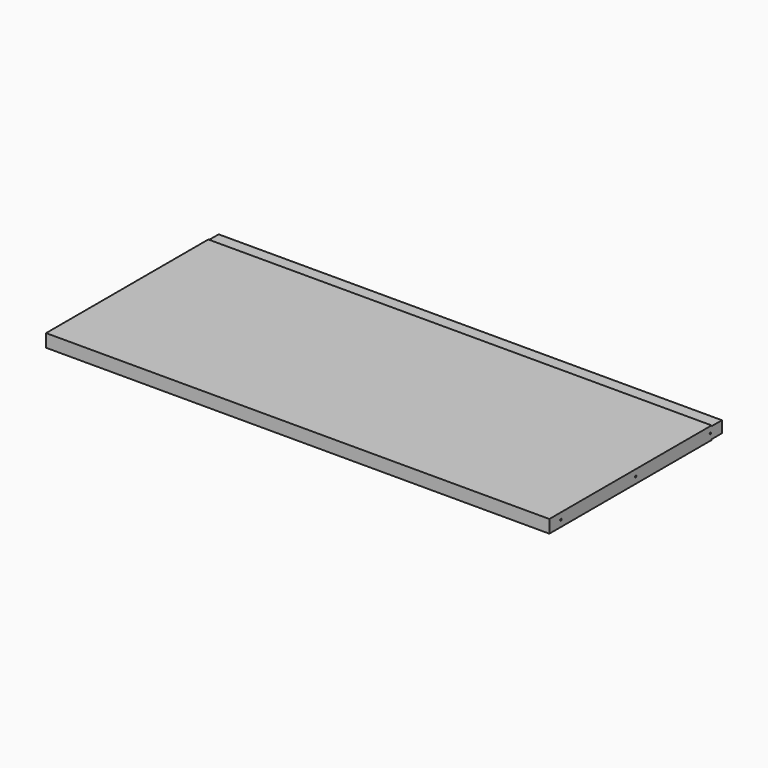
from build123d import *

# Parameters (mm, degrees)
F0_W     = 700
F0_H     = 300
F1_DEPTH = 18
F2_W     = 18
F2_H     = 1
F3_DEPTH = 700.001
F5_D     = 2.5
F5_DEPTH = 14.5
F5_TIP   = 0.7510757738
F7_D     = 2.5
F7_DEPTH = 14
F7_TIP   = 0.7510757738


with BuildPart() as f1:
    # F0 (on Top) → F1 (new body)
    with BuildSketch(Plane.XY):
        with Locations((350, 150)):
            Rectangle(F0_W, F0_H)
    extrude(amount=F1_DEPTH)

    # F2 (on face) → F3 (cut, through all)
    with BuildSketch(Plane(origin=(0, 0, 0), x_dir=(0, -1, 0), z_dir=(-1, 0, 0))):
        with Locations((-291, 17.5)):
            Rectangle(F2_W, F2_H)
        with Locations((-291, 0.5)):
            Rectangle(F2_W, F2_H)
    extrude(amount=-F3_DEPTH, mode=Mode.SUBTRACT)

    # F5
    with Locations(Plane(origin=(0, 0, 0), x_dir=(0, -1, 0), z_dir=(-1, 0, 0))):
        with Locations((-280, 9), (-150, 9), (-20, 9)):
            Hole(F5_D / 2, depth=F5_DEPTH)
            with Locations((0, 0, -(F5_DEPTH + F5_TIP / 2))):  # 118° drill point
                Cone(0, F5_D / 2, F5_TIP, mode=Mode.SUBTRACT)

    # F7
    with Locations(Plane.YZ.offset(700)):
        with Locations((20, 9), (150, 9), (280, 9)):
            Hole(F7_D / 2, depth=F7_DEPTH)
            with Locations((0, 0, -(F7_DEPTH + F7_TIP / 2))):  # 118° drill point
                Cone(0, F7_D / 2, F7_TIP, mode=Mode.SUBTRACT)


solid = f1.part
